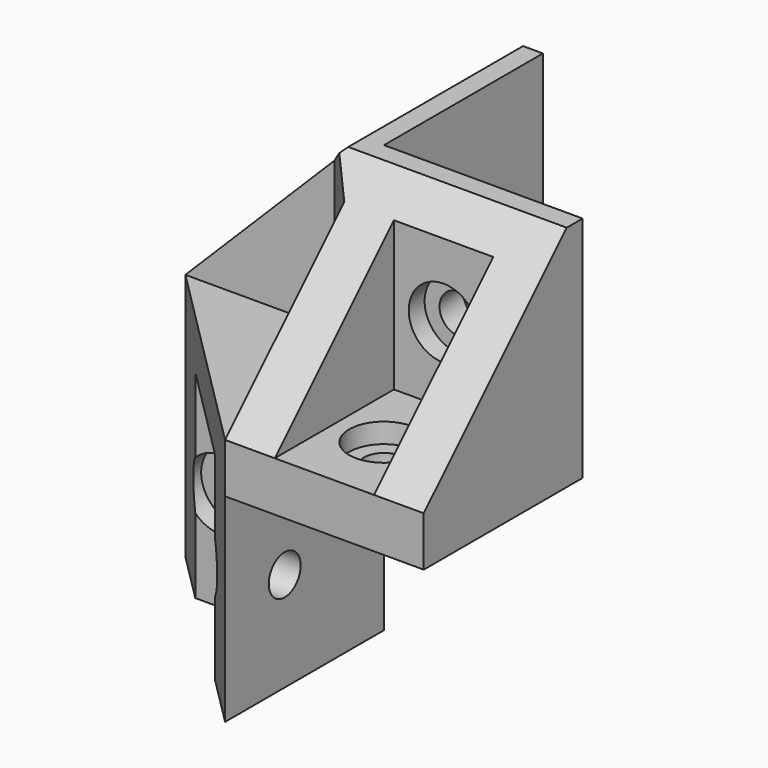
from build123d import *

# Parameters (mm, degrees)
F1_DEPTH  = 5
F3_DEPTH  = 20
F5_DEPTH  = 40.001
F7_DEPTH  = 40.001
F8_R      = 2.01
F9_DEPTH  = 5
F10_R     = 2.01
F11_DEPTH = 5
F12_R     = 3.51
F13_DEPTH = 2
F14_R     = 3.51
F15_DEPTH = 2
F16_R     = 2.01
F17_DEPTH = 5
F18_R     = 3.51
F19_DEPTH = 2
F20_R     = 3.51
F21_DEPTH = 2
F23_DEPTH = 20
F24_R     = 2.01
F25_DEPTH = 5
F26_R     = 2.01
F27_DEPTH = 5
F28_R     = 3.51
F29_DEPTH = 2
F30_R     = 3.51
F31_DEPTH = 2
F32_W     = 20
F32_H     = 2
F33_DEPTH = 20.001
F35_DEPTH = 20.001


with BuildPart() as f1:
    # F0 (on Top) → F1 (new body)
    with BuildSketch(Plane.XY):
        Polygon((20, 0), (0, 0), (0, 20), (-20, 20), (-20, 0), (0, -20), (20, -20), align=None)
    extrude(amount=F1_DEPTH)

    # F2 (on face) → F3 (join)
    with BuildSketch(Plane.XY.offset(5)):
        Polygon((15, -20), (20, -20), (20, 0), (0, 0), (0, 20), (-5, 20), (-20, 20), (-20, 15), (-5, 15), (-5, 5), (-20, 5), (-20, 0), (-5, 0), (0, -5), (0, -20), (5, -20), (5, -5), (15, -5), align=None)
    extrude(amount=F3_DEPTH)

    # F4 (on face) → F5 (cut, through all)
    with BuildSketch(Plane.YZ.offset(20)):
        Polygon((-20, 5), (0, 25), (-20, 25), align=None)
    extrude(amount=-F5_DEPTH, mode=Mode.SUBTRACT)

    # F6 (on face) → F7 (cut, through all)
    with BuildSketch(Plane(origin=(0, 20, 0), x_dir=(-1, 0, 0), z_dir=(0, 1, 0))):
        Polygon((0, 25), (20, 5), (20, 25), align=None)
    extrude(amount=-F7_DEPTH, mode=Mode.SUBTRACT)

    # F8 (on face) → F9 (cut)
    with BuildSketch(Plane.YZ):
        with Locations((10, 12.5)):
            Circle(F8_R)
    extrude(amount=-F9_DEPTH, mode=Mode.SUBTRACT)

    # F10 (on face) → F11 (cut)
    with BuildSketch(Plane(origin=(0, 0, 0), x_dir=(-1, 0, 0), z_dir=(0, 1, 0))):
        with Locations((-10, 12.5)):
            Circle(F10_R)
    extrude(amount=-F11_DEPTH, mode=Mode.SUBTRACT)

    # F12 (on face) → F13 (cut)
    with BuildSketch(Plane.XZ.offset(5)):
        with Locations((10, 12.5)):
            Circle(F12_R)
    extrude(amount=-F13_DEPTH, mode=Mode.SUBTRACT)

    # F14 (on face) → F15 (cut)
    with BuildSketch(Plane(origin=(-5, 0, 0), x_dir=(0, -1, 0), z_dir=(-1, 0, 0))):
        with Locations((-10, 12.5)):
            Circle(F14_R)
    extrude(amount=-F15_DEPTH, mode=Mode.SUBTRACT)

    # F16 (on face) → F17 (cut)
    with BuildSketch(Plane(origin=(0, 0, 0), x_dir=(1, 0, 0), z_dir=(0, 0, -1))):
        with Locations((-12.5, -10)):
            Circle(F16_R)
        with Locations((10, 12.5)):
            Circle(F16_R)
    extrude(amount=-F17_DEPTH, mode=Mode.SUBTRACT)

    # F18 (on face) → F19 (cut)
    with BuildSketch(Plane.XY.offset(5)):
        with Locations((-12.5, 10)):
            Circle(F18_R)
    extrude(amount=-F19_DEPTH, mode=Mode.SUBTRACT)

    # F20 (on face) → F21 (cut)
    with BuildSketch(Plane.XY.offset(5)):
        with Locations((10, -12.5)):
            Circle(F20_R)
    extrude(amount=-F21_DEPTH, mode=Mode.SUBTRACT)

    # F22 (on Top) → F23 (join)
    with BuildSketch(Plane.XY):
        Polygon((0, -20), (0, 0), (-20, 0), (-15, -5), (-10, -5), (-5, -5), (-5, -10), (-5, -15), align=None)
    extrude(amount=-F23_DEPTH)

    # F24 (on face) → F25 (cut)
    with BuildSketch(Plane.YZ):
        with Locations((-12.5, -10)):
            Circle(F24_R)
    extrude(amount=-F25_DEPTH, mode=Mode.SUBTRACT)

    # F26 (on face) → F27 (cut)
    with BuildSketch(Plane(origin=(0, 0, 0), x_dir=(-1, 0, 0), z_dir=(0, 1, 0))):
        with Locations((12.5, -10)):
            Circle(F26_R)
    extrude(amount=-F27_DEPTH, mode=Mode.SUBTRACT)

    # F28 (on face) → F29 (cut)
    with BuildSketch(Plane(origin=(-5, 0, 0), x_dir=(0, -1, 0), z_dir=(-1, 0, 0))):
        with Locations((12.5, -10)):
            Circle(F28_R)
    extrude(amount=-F29_DEPTH, mode=Mode.SUBTRACT)

    # F30 (on face) → F31 (cut)
    with BuildSketch(Plane.XZ.offset(5)):
        with Locations((-12.5, -10)):
            Circle(F30_R)
    extrude(amount=-F31_DEPTH, mode=Mode.SUBTRACT)

    # F32 (on face) → F33 (cut, through all)
    with BuildSketch(Plane(origin=(0, 0, 0), x_dir=(-1, 0, 0), z_dir=(0, 1, 0))):
        with Locations((-10, 24)):
            Rectangle(F32_W, F32_H)
    extrude(amount=-F33_DEPTH, mode=Mode.SUBTRACT)

    # F34 (on face) → F35 (cut, through all)
    with BuildSketch(Plane.YZ):
        Polygon((-2.924178, 22.901505), (-2, 23), (20, 23), (20, 25), (-2.924178, 25), align=None)
    extrude(amount=-F35_DEPTH, mode=Mode.SUBTRACT)


solid = f1.part
